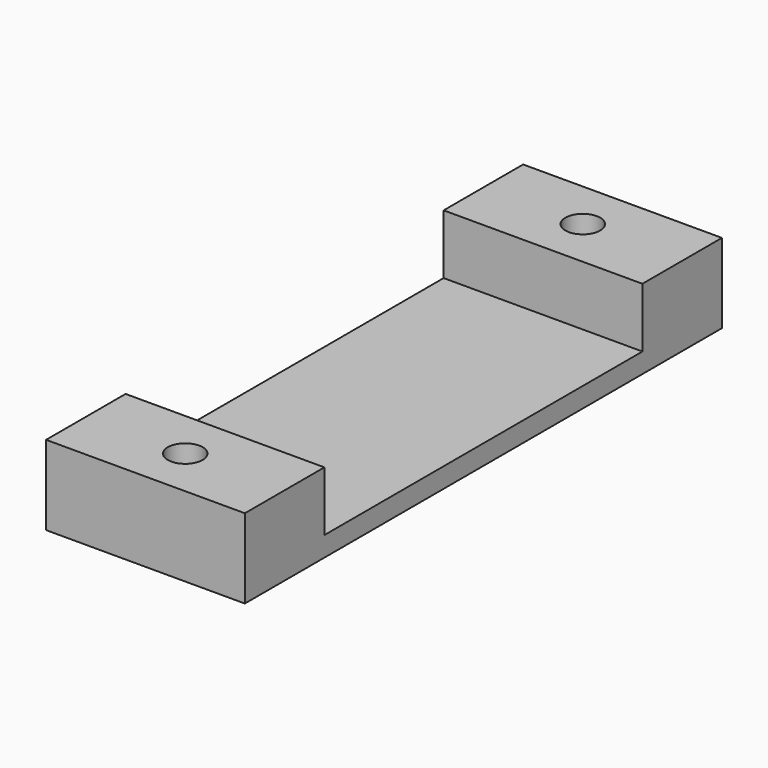
from build123d import *

# Parameters (mm, degrees)
F0_W     = 20
F0_H     = 60
F0_R     = 1.75
F1_DEPTH = 2
F2_W     = 20
F2_H     = 10
F2_R     = 1.75
F3_DEPTH = 6
F5_DEPTH = 2.5


with BuildPart() as f1:
    # F0 (on Top) → F1 (new body)
    with BuildSketch(Plane.XY):
        Rectangle(F0_W, F0_H)
        with Locations((0, -25)):
            Circle(F0_R, mode=Mode.SUBTRACT)
        with Locations((0, 25)):
            Circle(F0_R, mode=Mode.SUBTRACT)
    extrude(amount=F1_DEPTH)

    # F2 (on face) → F3 (join)
    with BuildSketch(Plane.XY.offset(2)):
        with Locations((0, 25)):
            Rectangle(F2_W, F2_H)
        with Locations((0, 25)):
            Circle(F2_R, mode=Mode.SUBTRACT)
        with Locations((0, -25)):
            Rectangle(F2_W, F2_H)
        with Locations((0, -25)):
            Circle(F2_R, mode=Mode.SUBTRACT)
    extrude(amount=F3_DEPTH)

    # F4 (on face) → F5 (cut)
    with BuildSketch(Plane.XY):
        Polygon((1.5877132403, -22.25), (-1.5877132403, -22.25), (-3.1754264805, -25), (-1.5877132403, -27.75), (1.5877132403, -27.75), (3.1754264805, -25), align=None)
        Polygon((1.5877132403, 27.75), (-1.5877132403, 27.75), (-3.1754264805, 25), (-1.5877132403, 22.25), (1.5877132403, 22.25), (3.1754264805, 25), align=None)
    extrude(amount=F5_DEPTH, mode=Mode.SUBTRACT)


solid = f1.part
